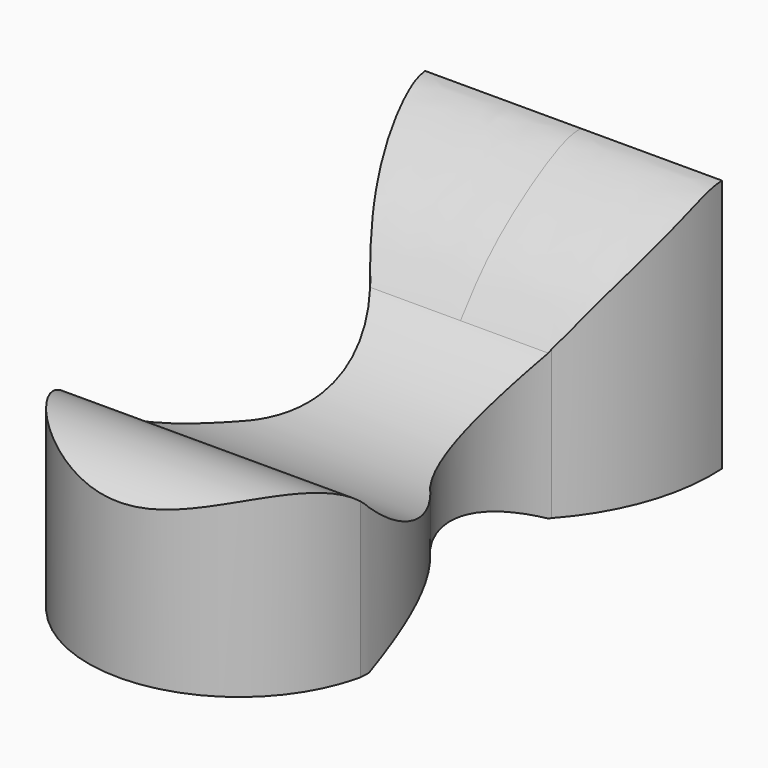
from build123d import *

# Parameters (mm, degrees)
F1_DEPTH = 50.8
F3_DEPTH = 25.4
F4_DEPTH = 50.8


with BuildPart() as f1:
    # F0 (on Top) → F1 (new body)
    with BuildSketch(Plane.XY):
        with BuildLine():
            ThreePointArc((-15.1947466657, 0), (-22.0060110943, -10.86221038), (-25.7512666285, -23.1241025031))
            ThreePointArc((-25.7512666285, -23.1241025031), (-2.0484127491, -44.6133454073), (23.3222842216, -25.1212809235))
            ThreePointArc((23.3222842216, -25.1212809235), (21.5555211936, -11.7044416716), (14.7629464045, 0))
            ThreePointArc((14.7629464045, 0), (10.7387450248, 12.5467581674), (14.7629464045, 25.0935163349))
            ThreePointArc((14.7629464045, 25.0935163349), (21.5180813897, 36.4983696165), (23.3222842216, 49.63029176))
            Line((23.3222842216, 49.63029176), (-25.7512666285, 49.63029176))
            ThreePointArc((-25.7512666285, 49.63029176), (-22.2790381522, 36.5848904706), (-15.1947466657, 25.0935163349))
            ThreePointArc((-15.1947466657, 25.0935163349), (-10.9623069939, 12.5467581674), (-15.1947466657, 0))
        make_face()
    extrude(amount=F1_DEPTH)

    # F2 (on Right) → F3 (cut)
    with BuildSketch(Plane.YZ):
        with BuildLine():
            ThreePointArc((24.7435215861, 0), (0.6627701223, 5.5987162901), (-23.4179813415, 0))
            Line((-23.4179813415, 0), (24.7435215861, 0))
        make_face()
        with BuildLine():
            ThreePointArc((-46.2089851499, 24.0807514638), (-34.8134832457, 29.0446018263), (-23.4179813415, 24.0807514638))
            ThreePointArc((-23.4179813415, 24.0807514638), (0.6627701223, 14.6606816853), (24.7435215861, 24.0807514638))
            add(Edge.make_bspline(
                [(24.7435215861, 24.0807514638), (26.9770560839, 27.0474434767), (31.7641691677, 33.4059260361), (45.7356507893, 42.0064080333), (49.0760807653, 41.9577828011), (50.1966327429, 41.9414713979)],
                knots=[0, 0, 0, 0, 0.3675927898, 0.7878581036, 1, 1, 1, 1], degree=3))
            Line((50.1966327429, 41.9414713979), (50.1966327429, 52.80091241))
            Line((50.1966327429, 52.80091241), (-46.2089851499, 52.80091241))
            Line((-46.2089851499, 52.80091241), (-46.2089851499, 24.0807514638))
        make_face()
    extrude(amount=F3_DEPTH, mode=Mode.SUBTRACT)

    # F2 (on Right) → F4 (cut)
    with BuildSketch(Plane.YZ):
        with BuildLine():
            ThreePointArc((-46.2089851499, 24.0807514638), (-34.8134832457, 29.0446018263), (-23.4179813415, 24.0807514638))
            ThreePointArc((-23.4179813415, 24.0807514638), (0.6627701223, 14.6606816853), (24.7435215861, 24.0807514638))
            add(Edge.make_bspline(
                [(24.7435215861, 24.0807514638), (26.9770560839, 27.0474434767), (31.7641691677, 33.4059260361), (45.7356507893, 42.0064080333), (49.0760807653, 41.9577828011), (50.1966327429, 41.9414713979)],
                knots=[0, 0, 0, 0, 0.3675927898, 0.7878581036, 1, 1, 1, 1], degree=3))
            Line((50.1966327429, 41.9414713979), (50.1966327429, 52.80091241))
            Line((50.1966327429, 52.80091241), (-46.2089851499, 52.80091241))
            Line((-46.2089851499, 52.80091241), (-46.2089851499, 24.0807514638))
        make_face()
        with BuildLine():
            ThreePointArc((24.7435215861, 0), (0.6627701223, 5.5987162901), (-23.4179813415, 0))
            Line((-23.4179813415, 0), (24.7435215861, 0))
        make_face()
    extrude(amount=-F4_DEPTH, mode=Mode.SUBTRACT)


solid = f1.part
